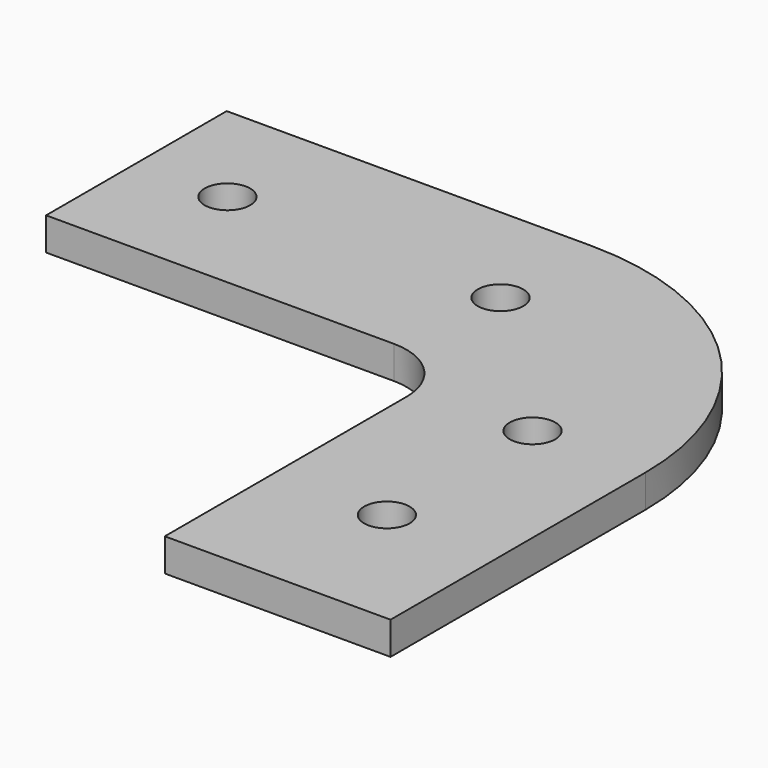
from build123d import *

# Parameters (mm, degrees)
F0_R     = 3.175
F1_DEPTH = 4.572


with BuildPart() as f1:
    # F0 (on Top) → F1 (new body)
    with BuildSketch(Plane.XY):
        with BuildLine():
            Line((-6.604, 82.55), (-57.404, 82.55))
            Line((-57.404, 82.55), (-57.404, 51.054))
            Line((-57.404, 51.054), (-8.89, 51.054))
            ThreePointArc((-8.89, 51.054), (-2.603821, 48.450179), (0, 42.164))
            Line((0, 42.164), (0, 0))
            Line((0, 0), (31.496, 0))
            Line((31.496, 0), (31.496, 44.45))
            ThreePointArc((31.496, 44.45), (20.336768, 71.390768), (-6.604, 82.55))
        make_face()
        with Locations((15.748, 19.05)):
            Circle(F0_R, mode=Mode.SUBTRACT)
        with Locations((-44.704, 66.802)):
            Circle(F0_R, mode=Mode.SUBTRACT)
        with Locations((15.748, 44.45)):
            Circle(F0_R, mode=Mode.SUBTRACT)
        with Locations((-6.604, 66.802)):
            Circle(F0_R, mode=Mode.SUBTRACT)
    extrude(amount=F1_DEPTH)


solid = f1.part
